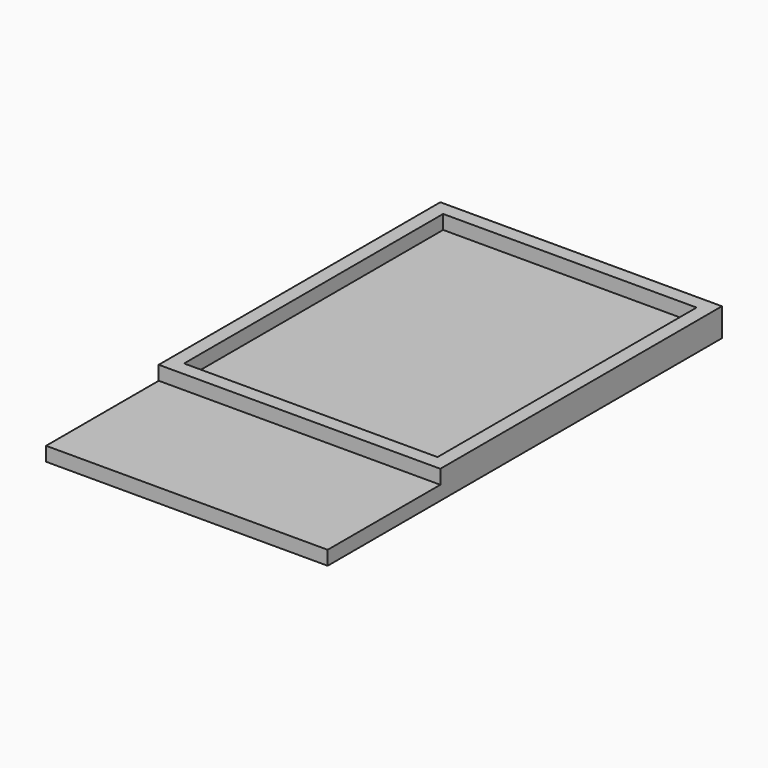
from build123d import *

# Parameters (mm, degrees)
F0_W     = 200
F0_H     = 250
F1_DEPTH = 200
F2_W     = 180
F2_H     = 230
F3_DEPTH = 190
F4_DEPTH = 180
F0_H_2   = 100
F5_DEPTH = 10


with BuildPart() as f1:
    # F0 (on Top) → F1 (new body)
    with BuildSketch(Plane.XY):
        with Locations((40.9984113305, 1.9545629621)):
            Rectangle(F0_W, F0_H)
    extrude(amount=F1_DEPTH)

    # F2 (on face) → F3 (cut)
    with BuildSketch(Plane.XY.offset(200)):
        with Locations((40.9984113305, 1.9545629621)):
            Rectangle(F2_W, F2_H)
    extrude(amount=-F3_DEPTH, mode=Mode.SUBTRACT)

    # F4 (cut): a face of the model
    f4_faces = [f1.faces().sort_by_distance(p)[0] for p in [
        (-55.8000265508, 1.9545629621, 200),
    ]]
    extrude(f4_faces, amount=-F4_DEPTH, mode=Mode.SUBTRACT)

    # F0 (on Top) → F5 (join)
    with BuildSketch(Plane.XY):
        with Locations((40.9984113305, -173.0454370379)):
            Rectangle(F0_W, F0_H_2)
    extrude(amount=F5_DEPTH)


solid = f1.part
